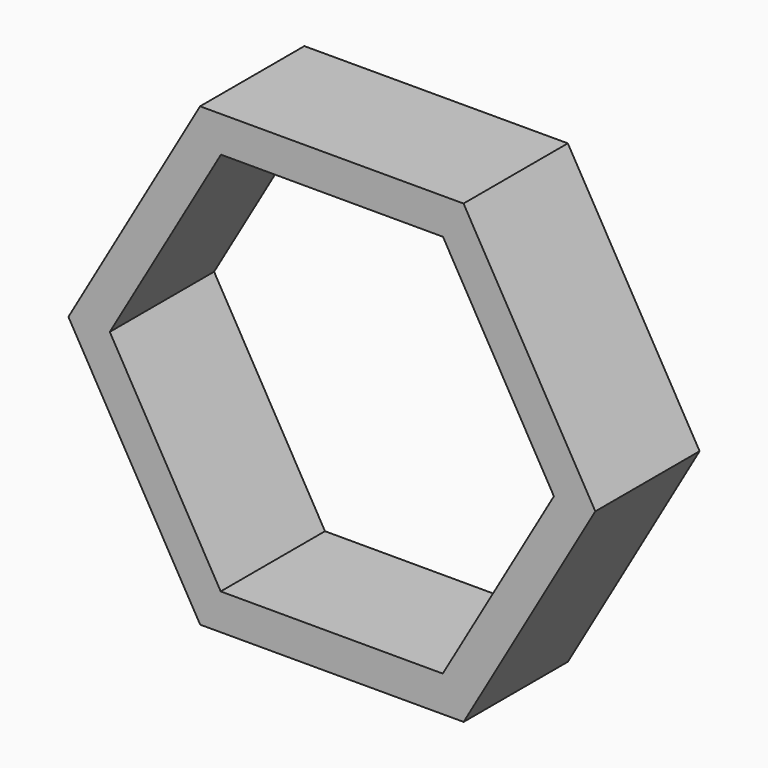
from build123d import *

# Parameters (mm, degrees)
F2_DEPTH = 100
F3_DEPTH = 191


with BuildPart() as f2:
    # F0 (on Front) → F2 (new body)
    with BuildSketch(Plane.XZ):
        Polygon((-202.072588, -0.051365), (-100.99181, -175.025677), (101.080777, -174.974312), (202.072588, 0.051365), (100.99181, 175.025677), (-101.080777, 174.974312), align=None)
    extrude(amount=F2_DEPTH)

    # F1 (on face) → F3 (cut)
    with BuildSketch(Plane.XZ):
        Polygon((-170.318293, 0.111171), (-85.255424, -147.444383), (85.062869, -147.555554), (170.318293, -0.111171), (85.255424, 147.444383), (-85.062869, 147.555554), align=None)
    extrude(amount=F3_DEPTH, mode=Mode.SUBTRACT)


solid = f2.part
